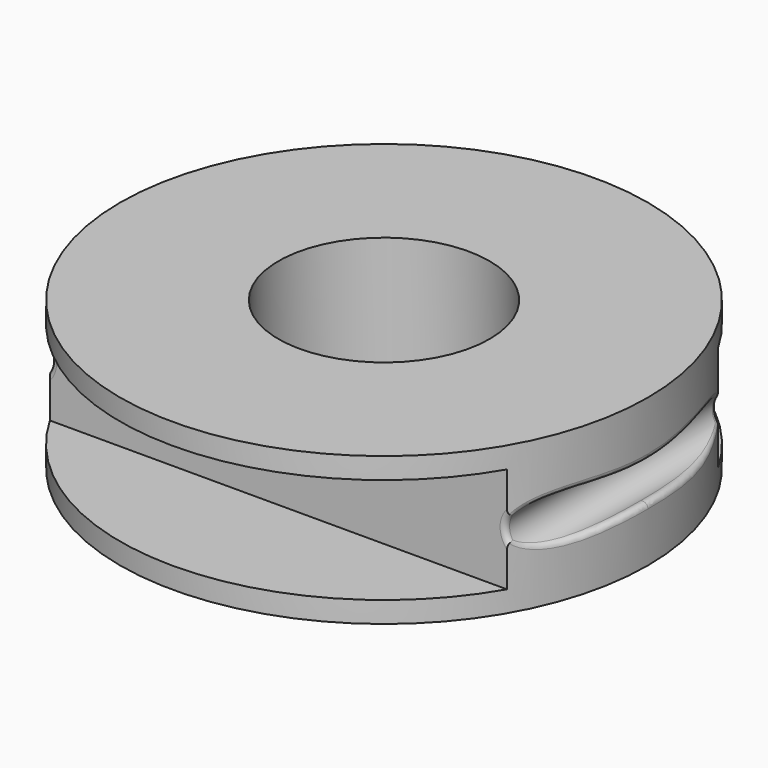
from build123d import *

# Parameters (mm, degrees)
F1_DEPTH  = 50
F2_R      = 25
F3_DEPTH  = 14.001
F4_R      = 10
F5_DEPTH  = 14.001
F7_DEPTH  = 37.501
F8_R      = 0.5
F9_R      = 2
F10_DEPTH = 37.5010001
F11_R     = 0.5


with BuildPart() as f1:
    # F0 (on Right) → F1 (new body)
    with BuildSketch(Plane.YZ):
        Polygon((-50, 0), (0, 0), (0, 2), (-12.5, 2), (-12.5, 12), (0, 12), (0, 14), (-50, 14), (-50, 12), (-37.5, 12), (-37.5, 2), (-50, 2), align=None)
    extrude(amount=F1_DEPTH)

    # F2 (on face) → F3 (intersect, through all)
    with BuildSketch(Plane.XY.offset(14)):
        with Locations((25, -25)):
            Circle(F2_R)
    extrude(amount=-F3_DEPTH, mode=Mode.INTERSECT)

    # F4 (on face) → F5 (cut, through all)
    with BuildSketch(Plane.XY.offset(14)):
        with Locations((25, -25)):
            Circle(F4_R)
    extrude(amount=-F5_DEPTH, mode=Mode.SUBTRACT)

    # F6 (on face) → F7 (cut, through all)
    with BuildSketch(Plane.XZ.offset(37.5)):
        with BuildLine():
            ThreePointArc((46.4946512282, 7), (48.4946512282, 5), (50.4946512282, 7))
            ThreePointArc((50.4946512282, 7), (48.4946512282, 9), (46.4946512282, 7))
        make_face()
    extrude(amount=-F7_DEPTH, mode=Mode.SUBTRACT)

    # F8
    f8_edges = [f1.edges().sort_by_distance(p)[0] for p in [
        (49.113597, -31.598062, 5.098184),
        (49.113597, -18.401938, 5.098184),
        (46.494651, -12.5, 7),
        (49.113597, -18.401938, 8.901816),
        (49.113597, -31.598062, 8.901816),
        (46.494651, -37.5, 7),
    ]]
    fillet(f8_edges, radius=F8_R)

    # F9 (on face) → F10 (cut, through all)
    with BuildSketch(Plane.XZ.offset(37.5)):
        with Locations((1.5, 7)):
            Circle(F9_R)
    extrude(amount=-F10_DEPTH, mode=Mode.SUBTRACT)

    # F11
    f11_edges = [f1.edges().sort_by_distance(p)[0] for p in [
        (3.5, -12.5, 7),
        (0, -25, 8.322876),
        (3.5, -37.5, 7),
        (0, -25, 5.677124),
    ]]
    fillet(f11_edges, radius=F11_R)


solid = f1.part
